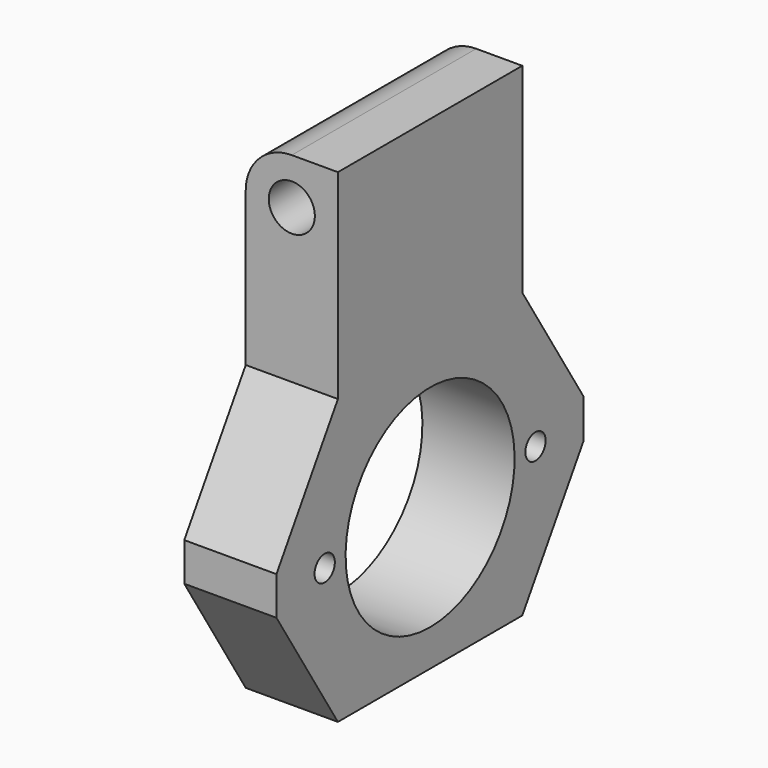
from build123d import *

# Parameters (mm, degrees)
F1_DEPTH = 12
F3_D     = 3.3
F4_R     = 3
F5_DEPTH = 30
F6_R     = 6


with BuildPart() as f1:
    # F0 (on Right) → F1 (new body)
    with BuildSketch(Plane.YZ):
        Polygon((15, 44.5), (0, 44.5), (-15, 44.5), (-15, 18.5), (-25, 2.5), (-25, -2.5), (-15, -18.5), (0, -18.5), (15, -18.5), (25, -2.5), (25, 2.5), (15, 18.5), align=None)
        with BuildLine():
            ThreePointArc((0, 13.75), (13.75, 0), (0, -13.75))
            ThreePointArc((0, -13.75), (-13.75, 0), (0, 13.75))
        make_face(mode=Mode.SUBTRACT)
    extrude(amount=-F1_DEPTH)

    # F3 (through all)
    with Locations(Plane.YZ):
        with Locations((-17.15, 0), (17.15, 0)):
            Hole(F3_D / 2)

    # F4 (on face) → F5 (cut, through all)
    with BuildSketch(Plane.XZ.offset(15)):
        with Locations((-6, 38.5)):
            Circle(F4_R)
    extrude(amount=-F5_DEPTH, mode=Mode.SUBTRACT)

    # F6
    f6_edges = [f1.edges().sort_by_distance(p)[0] for p in [
        (-12, 0, 44.5),
    ]]
    fillet(f6_edges, radius=F6_R)


solid = f1.part
